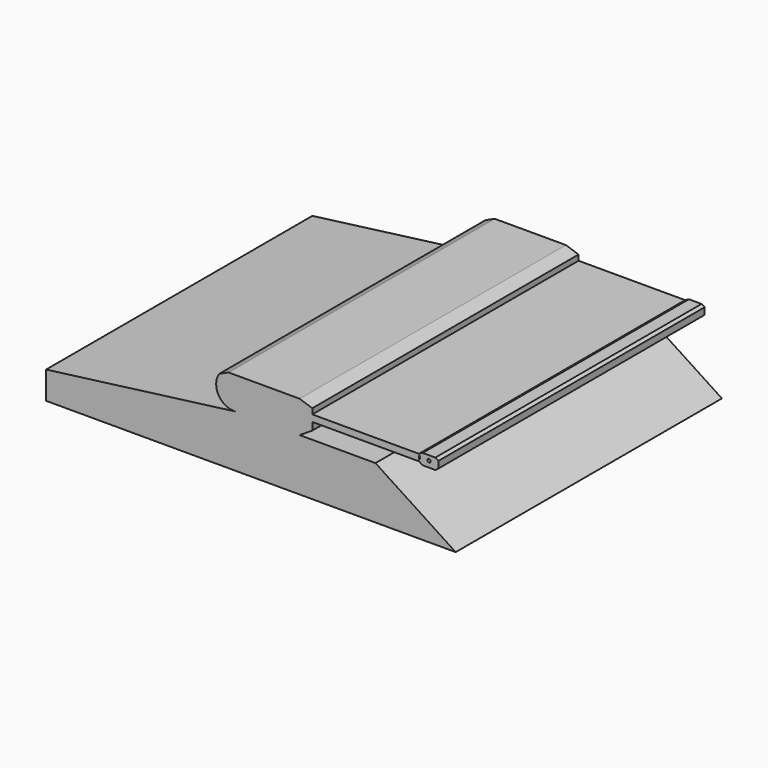
from build123d import *

# Parameters (mm, degrees)
F0_R     = 0.636476
F1_DEPTH = 130


with BuildPart() as f1:
    # F0 (on Front) → F1 (new body)
    with BuildSketch(Plane.XZ):
        Polygon((-12.308648, 30.563487), (-86.652653, 20.890858), (-86.652653, 10.133532), (73.347347, 10.133532), (42.023724, 30.563487), (12.39394, 30.563487), align=None)
        with BuildLine():
            ThreePointArc((-19.014622, 41.418116), (-19.166356, 33.82559), (-12.308648, 30.563487))
            Line((-12.308648, 30.563487), (12.39394, 30.563487))
            Line((12.39394, 30.563487), (17.338732, 33.726226))
            Line((17.338732, 33.726226), (17.338732, 36.697887))
            Line((17.338732, 36.697887), (17.338732, 39.282866))
            Line((17.338732, 39.282866), (17.338732, 41.418116))
            Line((17.338732, 41.418116), (12.39394, 43.066382))
            Line((12.39394, 43.066382), (-15.351817, 43.066382))
            Line((-15.351817, 43.066382), (-19.014622, 41.418116))
        make_face()
        Polygon((17.338732, 39.282866), (17.338732, 36.697887), (58.978832, 36.697887), (58.978832, 37.299656), (58.978832, 38.788896), (58.978832, 39.282866), align=None)
        with BuildLine():
            Line((58.978832, 37.299656), (58.978832, 36.697887))
            Line((58.978832, 36.697887), (60.444385, 35.799279))
            Line((60.444385, 35.799279), (65.389156, 35.799279))
            Line((65.389156, 35.799279), (66.625345, 36.697887))
            Line((66.625345, 36.697887), (66.625345, 39.341377))
            Line((66.625345, 39.341377), (65.389156, 40.057271))
            Line((65.389156, 40.057271), (60.444385, 40.057271))
            Line((60.444385, 40.057271), (58.978832, 39.282866))
            Line((58.978832, 39.282866), (58.978832, 38.788896))
            ThreePointArc((58.978832, 38.788896), (59.421711, 38.044276), (58.978832, 37.299656))
        make_face()
        with Locations((62.932795, 38.143512)):
            Circle(F0_R, mode=Mode.SUBTRACT)
    extrude(amount=F1_DEPTH)


solid = f1.part
